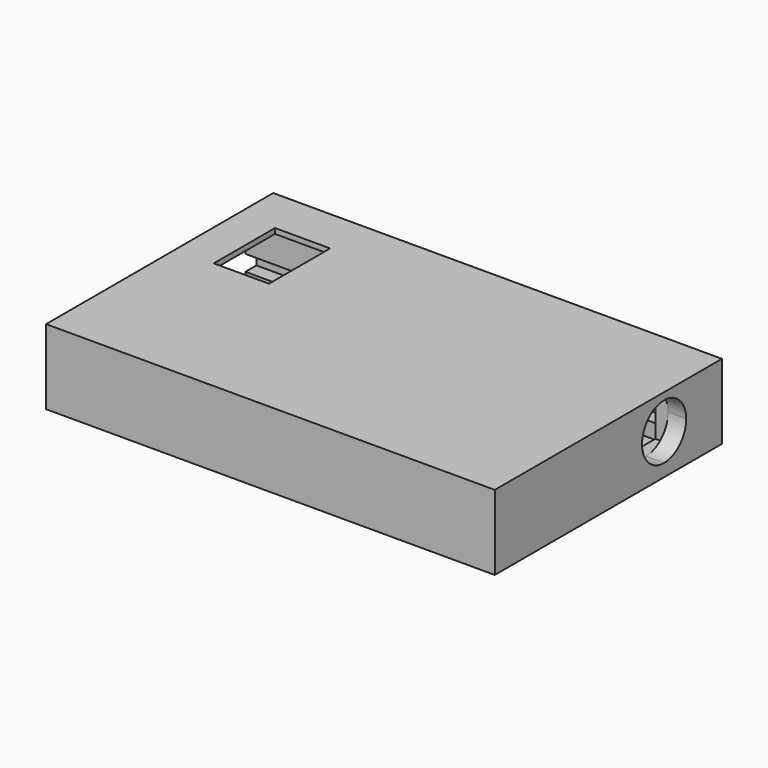
from build123d import *

# Parameters (mm, degrees)
F1_DEPTH      = 6
F1_DEPTH_BACK = 3.5
F2_W          = 1.75
F2_H          = 2
F2_W_2        = 27
F2_H_2        = 1.8599129291
F2_H_3        = 4.3400870709
F3_DEPTH      = 53.001
F4_W          = 7
F4_H          = 9.7
F5_DEPTH      = 0.6599129291
F6_W          = 36
F6_H          = 9.5
F7_DEPTH      = 3.9
F8_DEPTH      = 1.6


with BuildPart() as f1:
    # F0 (on Top) → F1 (new body, two sides)
    with BuildSketch(Plane.XY) as f1_sk:
        Polygon((23.0564765632, 14.9109546933), (-26.9435234368, 14.9109546933), (-26.9435234368, -4.6890453067), (-26.9435234368, -11.6890453067), (-26.9435234368, -15.0890453067), (23.0564765632, -15.0890453067), align=None)
        Polygon((-26.9435234368, 17.9109546933), (-26.9435234368, 14.9109546933), (23.0564765632, 14.9109546933), (23.0564765632, -15.0890453067), (-26.9435234368, -15.0890453067), (-26.9435234368, -18.0890453067), (26.0564765632, -18.0890453067), (26.0564765632, 17.9109546933), align=None)
    extrude(amount=F1_DEPTH)
    extrude(f1_sk.sketch, amount=-F1_DEPTH_BACK)

    # F2 (on face) → F3 (cut, through all)
    with BuildSketch(Plane(origin=(-26.9435234368, 0, 0), x_dir=(0, -1, 0), z_dir=(-1, 0, 0))):
        with Locations((14.375, 0)):
            Rectangle(F2_W, F2_H)
        with Locations((0, -1.9299564646)):
            Rectangle(F2_W_2, F2_H_2)
        with Locations((-14.375, 0)):
            Rectangle(F2_W, F2_H)
        Rectangle(F2_W_2, F2_H)
        with Locations((0, 3.1700435354)):
            Rectangle(F2_W_2, F2_H_3)
    extrude(amount=-F3_DEPTH, mode=Mode.SUBTRACT)

    # F4 (on face) → F5 (cut, through all)
    with BuildSketch(Plane.XY.offset(6)):
        with Locations((-18.6190935215, 7.3109546933)):
            Rectangle(F4_W, F4_H)
    extrude(amount=-F5_DEPTH, mode=Mode.SUBTRACT)

    # F6 (on face) → F7 (join)
    with BuildSketch(Plane.YZ.offset(26.0564765632)):
        with Locations((-0.0890453067, 1.25)):
            Rectangle(F6_W, F6_H)
        Polygon((-15.25, -1), (-15.25, 1), (-13.5, 1), (-13.5, 5.3400870709), (13.5, 5.3400870709), (13.5, 1), (15.25, 1), (15.25, -1), (13.5, -1), (13.5, -2.8599129291), (-13.5, -2.8599129291), (-13.5, -1), align=None, mode=Mode.SUBTRACT)
        Polygon((-13.5, 1), (-15.25, 1), (-15.25, -1), (-13.5, -1), (-13.5, -2.8599129291), (13.5, -2.8599129291), (13.5, -1), (15.25, -1), (15.25, 1), (13.5, 1), (13.5, 5.3400870709), (-13.5, 5.3400870709), align=None)
        Polygon((5.25, 1.6), (5.25, 5.1), (8.75, 5.1), (12.25, 5.1), (12.25, 1.6), (12.25, -1.9), (8.75, -1.9), (5.25, -1.9), align=None, mode=Mode.SUBTRACT)
        with BuildLine():
            Line((8.75, 5.1), (5.25, 5.1))
            Line((5.25, 5.1), (5.25, 1.6))
            ThreePointArc((5.25, 1.6), (6.2751262658, 4.0748737342), (8.75, 5.1))
        make_face()
        with BuildLine():
            Line((12.25, 5.1), (8.75, 5.1))
            ThreePointArc((8.75, 5.1), (11.2248737342, 4.0748737342), (12.25, 1.6))
            Line((12.25, 1.6), (12.25, 5.1))
        make_face()
        with BuildLine():
            Line((12.25, -1.9), (12.25, 1.6))
            ThreePointArc((12.25, 1.6), (11.2248737342, -0.8748737342), (8.75, -1.9))
            Line((8.75, -1.9), (12.25, -1.9))
        make_face()
        with BuildLine():
            ThreePointArc((8.75, -1.9), (6.2751262658, -0.8748737342), (5.25, 1.6))
            Line((5.25, 1.6), (5.25, -1.9))
            Line((5.25, -1.9), (8.75, -1.9))
        make_face()
    extrude(amount=F7_DEPTH)

    # F6 (on face) → F8 (cut)
    with BuildSketch(Plane.YZ.offset(26.0564765632)):
        with BuildLine():
            Line((8.75, 5.1), (5.25, 5.1))
            Line((5.25, 5.1), (5.25, 1.6))
            ThreePointArc((5.25, 1.6), (6.2751262658, 4.0748737342), (8.75, 5.1))
        make_face()
        with BuildLine():
            Line((12.25, 5.1), (8.75, 5.1))
            ThreePointArc((8.75, 5.1), (11.2248737342, 4.0748737342), (12.25, 1.6))
            Line((12.25, 1.6), (12.25, 5.1))
        make_face()
        with BuildLine():
            Line((12.25, -1.9), (12.25, 1.6))
            ThreePointArc((12.25, 1.6), (11.2248737342, -0.8748737342), (8.75, -1.9))
            Line((8.75, -1.9), (12.25, -1.9))
        make_face()
        with BuildLine():
            ThreePointArc((8.75, -1.9), (6.2751262658, -0.8748737342), (5.25, 1.6))
            Line((5.25, 1.6), (5.25, -1.9))
            Line((5.25, -1.9), (8.75, -1.9))
        make_face()
    extrude(amount=F8_DEPTH, mode=Mode.SUBTRACT)


solid = f1.part
